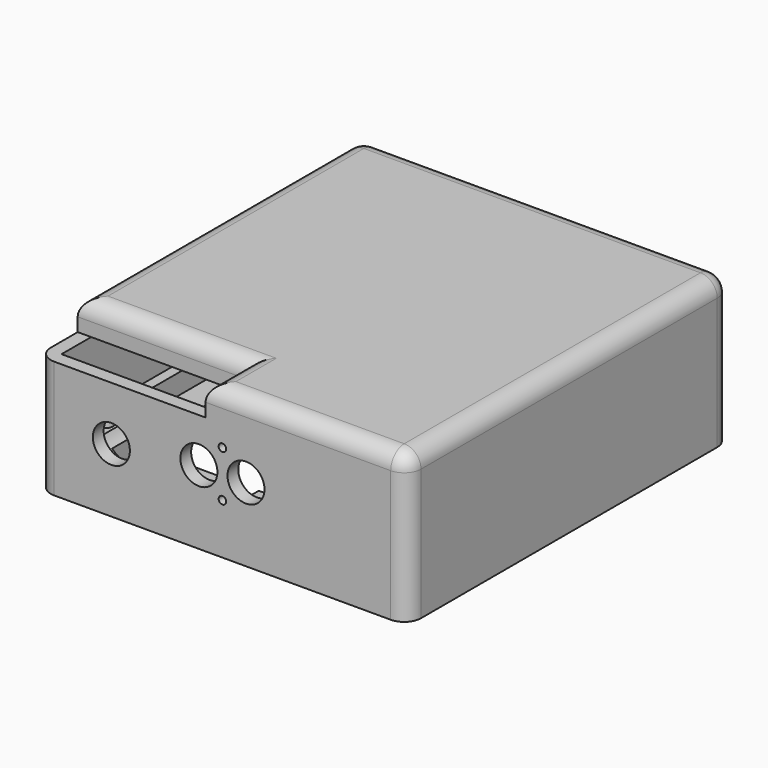
from build123d import *

# Parameters (mm, degrees)
SKETCH001_W       = 110
SKETCH001_H       = 120
PAD005_DEPTH      = 44
SKETCH002_W       = 102
SKETCH002_H       = 112
POCKET002_DEPTH   = 6
SKETCH010_R       = 2
SKETCH010_W       = 80
SKETCH010_H       = 101
SKETCH010_W_2     = 96
SKETCH010_H_2     = 15.5
POCKET003_DEPTH   = 10
SKETCH011_W       = 96
SKETCH011_H       = 85
POCKET004_DEPTH   = 7
SKETCH012_W       = 102
SKETCH012_H       = 112
POCKET005_DEPTH   = 25
SKETCH014_W       = 55
SKETCH014_H       = 30
PAD006_DEPTH      = 9
SKETCH013_W       = 50
SKETCH013_H       = 15
POCKET006_DEPTH   = 9
FILLET_R          = 5
SKETCH015_R       = 2
POCKET007_DEPTH   = 6
CYLINDER003_R     = 3.6
CYLINDER003_DEPTH = 5
CYLINDER004_R     = 10
CYLINDER004_DEPTH = 16
SKETCH016_R       = 5.5
SKETCH016_R_2     = 1.125
POCKET008_DEPTH   = 4


with BuildPart() as part:
    # Sketch001 → Pad005 (new body)
    with BuildSketch(Plane.XY):
        with Locations((0, -10)):
            Rectangle(SKETCH001_W, SKETCH001_H)
    extrude(amount=PAD005_DEPTH)

    # Sketch002 (on Face5 of Pad005) → Pocket002 (cut)
    with BuildSketch(Plane(origin=(0, 0, 0), x_dir=(1, 0, 0), z_dir=(0, 0, -1))):
        with Locations((0, 10)):
            Rectangle(SKETCH002_W, SKETCH002_H)
    extrude(amount=-POCKET002_DEPTH, mode=Mode.SUBTRACT)

    # Sketch010 (on Face11 of Pocket002) → Pocket003 (cut)
    with BuildSketch(Plane(origin=(0, 0, 6), x_dir=(1, 0, 0), z_dir=(0, 0, -1))):
        with Locations((-45, 57)):
            Circle(SKETCH010_R)
        with Locations((45, 57)):
            Circle(SKETCH010_R)
        with Locations((45, -40.5)):
            Circle(SKETCH010_R)
        with Locations((-45, -40.5)):
            Circle(SKETCH010_R)
        with Locations((0, 10.5)):
            Rectangle(SKETCH010_W, SKETCH010_H)
        with Locations((0, 42.25)):
            Rectangle(SKETCH010_W_2, SKETCH010_H_2)
    extrude(amount=-POCKET003_DEPTH, mode=Mode.SUBTRACT)

    # Sketch011 → Pocket004 (cut)
    with BuildSketch(Plane.XY.offset(9)):
        with Locations((0, -7.5)):
            Rectangle(SKETCH011_W, SKETCH011_H)
    extrude(amount=POCKET004_DEPTH, mode=Mode.SUBTRACT)

    # Sketch012 → Pocket005 (cut)
    with BuildSketch(Plane.XY.offset(15)):
        with Locations((0, -10)):
            Rectangle(SKETCH012_W, SKETCH012_H)
    extrude(amount=POCKET005_DEPTH, mode=Mode.SUBTRACT)

    # Sketch014 (on Face5 of Pocket005) → Pad006 (join)
    with BuildSketch(Plane.XY.offset(44)):
        with Locations((-27.5, -55)):
            Rectangle(SKETCH014_W, SKETCH014_H)
    extrude(amount=-PAD006_DEPTH)

    # Sketch013 (on Face5 of Pocket005) → Pocket006 (cut)
    with BuildSketch(Plane.XY.offset(44)):
        with Locations((-30, -62.5)):
            Rectangle(SKETCH013_W, SKETCH013_H)
    extrude(amount=-POCKET006_DEPTH, mode=Mode.SUBTRACT)

    # Fillet
    fillet_edges = [part.edges().sort_by_distance(p)[0] for p in [
        (55, -10, 44),
        (25, -70, 44),
        (-5, -62.5, 44),
        (-30, -55, 44),
        (-55, -2.5, 44),
        (0, 50, 44),
        (-55, 50, 22),
        (-55, -70, 17.5),
        (55, -70, 22),
        (55, 50, 22),
    ]]
    fillet(fillet_edges, radius=FILLET_R)

    # Sketch015 (on Face26 of Fillet) → Pocket007 (cut)
    with BuildSketch(Plane(origin=(0, 0, 35), x_dir=(1, 0, 0), z_dir=(0, 0, -1))):
        with Locations((-7, 45)):
            Circle(SKETCH015_R)
        with Locations((-32, 45)):
            Circle(SKETCH015_R)
    extrude(amount=-POCKET007_DEPTH, mode=Mode.SUBTRACT)

    # Cylinder003 → Cylinder003 (cut)
    with BuildSketch(Plane(origin=(0, -61, 15), x_dir=(1, 0, 0), z_dir=(0, -1, 0))):
        Circle(CYLINDER003_R)
    extrude(amount=CYLINDER003_DEPTH, mode=Mode.SUBTRACT)

    # Cylinder004 → Cylinder004 (cut)
    with BuildSketch(Plane(origin=(-33, -50, 19), x_dir=(1, 0, 0), z_dir=(0, -1, 0))):
        Circle(CYLINDER004_R)
    extrude(amount=CYLINDER004_DEPTH, mode=Mode.SUBTRACT)

    # Sketch016 (on Face6 of Pocket007) → Pocket008 (cut)
    with BuildSketch(Plane.XZ.offset(70)):
        with Locations((-7, 21.9)):
            Circle(SKETCH016_R)
        with Locations((7, 21.9)):
            Circle(SKETCH016_R)
        with Locations((0, 28.75)):
            Circle(SKETCH016_R_2)
        with Locations((0, 15)):
            Circle(SKETCH016_R_2)
        with Locations((-33, 19)):
            Circle(SKETCH016_R)
    extrude(amount=-POCKET008_DEPTH, mode=Mode.SUBTRACT)


solid = part.part
